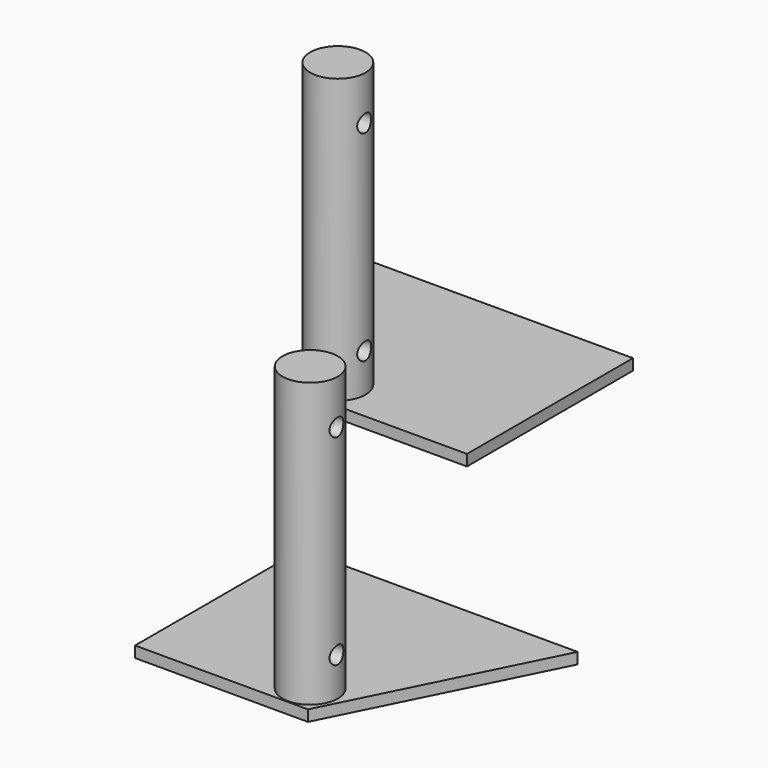
from build123d import *

# Parameters (mm, degrees)
F0_R     = 4
F1_DEPTH = 1.6
F2_DEPTH = 42.6
F3_R     = 1.25
F4_DEPTH = 12.5
F8_ANGLE = 180


with BuildPart() as f1:
    # F0 (on Top) → F1 (new body)
    with BuildSketch(Plane.XY):
        Polygon((-24.55396, 7.048562), (-24.55396, -22.951438), (0.44604, -22.951438), (15.44604, 7.048562), align=None)
        with Locations((-2.558275, -18.795224)):
            Circle(F0_R, mode=Mode.SUBTRACT)
    extrude(amount=F1_DEPTH)

    # F0 (on Top) → F2 (join)
    with BuildSketch(Plane.XY):
        with Locations((-2.558275, -18.795224)):
            Circle(F0_R)
    extrude(amount=F2_DEPTH)

    # F3 (on Right) → F4 (cut, symmetric)
    with BuildSketch(Plane.YZ):
        with Locations((-18.799224, 36.180745)):
            Circle(F3_R)
        with Locations((-18.799224, 7.180745)):
            Circle(F3_R)
    extrude(amount=F4_DEPTH, both=True, mode=Mode.SUBTRACT)


with BuildPart() as f5_1:
    # F5: instance of F1
    add(f1.part.mirror(Plane.XY))


with BuildPart() as f6_1:
    # F6: copy of F5_1
    add(f5_1.part.moved(Location((0, 60, 0))))


with BuildPart() as f6_1_1:
    # F8: moved
    add(f6_1.part.rotate(Axis((-24.55396, -7.951438, 0), (0, 1, 0)), F8_ANGLE))


solid = Compound([f1.part, f6_1_1.part])
